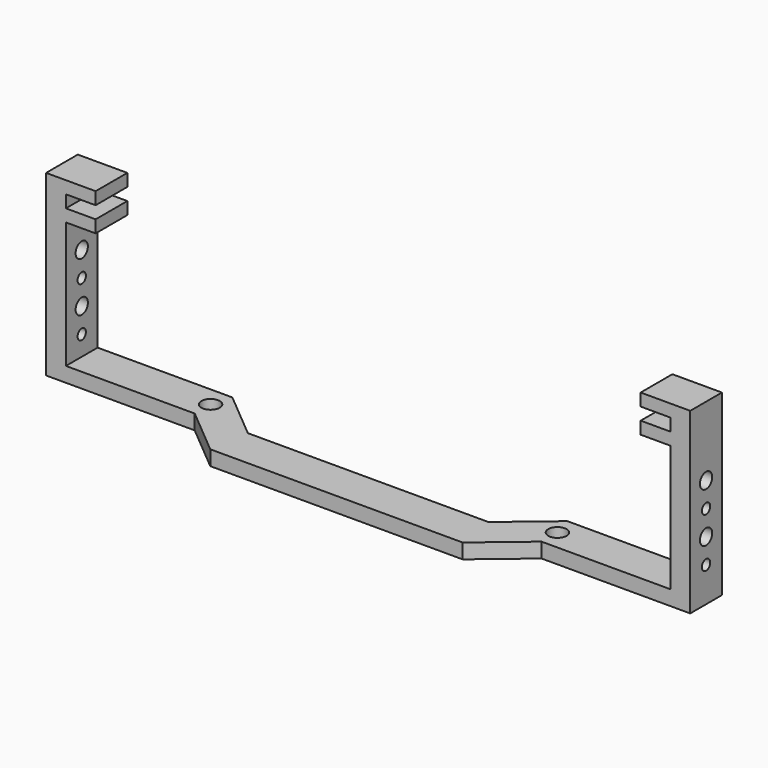
from build123d import *

# Parameters (mm, degrees)
PAD_DEPTH         = 8
SKETCH002_R       = 1.85
POCKET_DEPTH      = 276.677278
POCKET_DEPTH_BACK = 302.677278
SKETCH_R          = 1.55
SKETCH_R_2        = 1.05
POCKET001_DEPTH   = 135.001


with BuildPart() as part:
    # Sketch001 → Pad (new body, symmetric)
    with BuildSketch(Plane.XZ):
        Polygon((-65, 36), (-65, 0), (0, 0), (0, 3), (-61, 3), (-61, 28.5), (-55, 28.5), (-55, 31), (-61, 31), (-61, 33.5), (-55, 33.5), (-55, 36), align=None)
    pad = extrude(amount=PAD_DEPTH, both=True)

    # Mirrored: Pad across Sketch001 V_Axis
    add(pad.mirror(Plane(origin=(0, 0, 0), x_dir=(0, -1, 0), z_dir=(1, 0, 0))))

    # Sketch002 → Pocket (cut, two sides)
    with BuildSketch(Plane.XY.offset(5)) as pocket_sk:
        with Locations((-35, 4)):
            Circle(SKETCH002_R)
        Polygon((-66, 0), (-35, 0), (-24.274218, -9), (-66, -9), align=None)
        Polygon((-35, 9), (-24.274218, 0), (0, 0), (0, 9), align=None)
    pocket = extrude(amount=-POCKET_DEPTH, mode=Mode.SUBTRACT) + extrude(pocket_sk.sketch, amount=POCKET_DEPTH_BACK, mode=Mode.SUBTRACT)

    # Mirrored001: Pocket across Sketch002 V_Axis
    add(pocket.mirror(Plane(origin=(0, 0, 5), x_dir=(0, 0, 1), z_dir=(1, 0, 0))), mode=Mode.SUBTRACT)

    # Sketch → Pocket001 (cut, through all)
    with BuildSketch(Plane.YZ.offset(70)):
        with Locations((4, 12)):
            Circle(SKETCH_R)
        with Locations((4, 7)):
            Circle(SKETCH_R_2)
        with Locations((4, 17)):
            Circle(SKETCH_R_2)
        with Locations((4, 22)):
            Circle(SKETCH_R)
    extrude(amount=-POCKET001_DEPTH, mode=Mode.SUBTRACT)


solid = part.part
